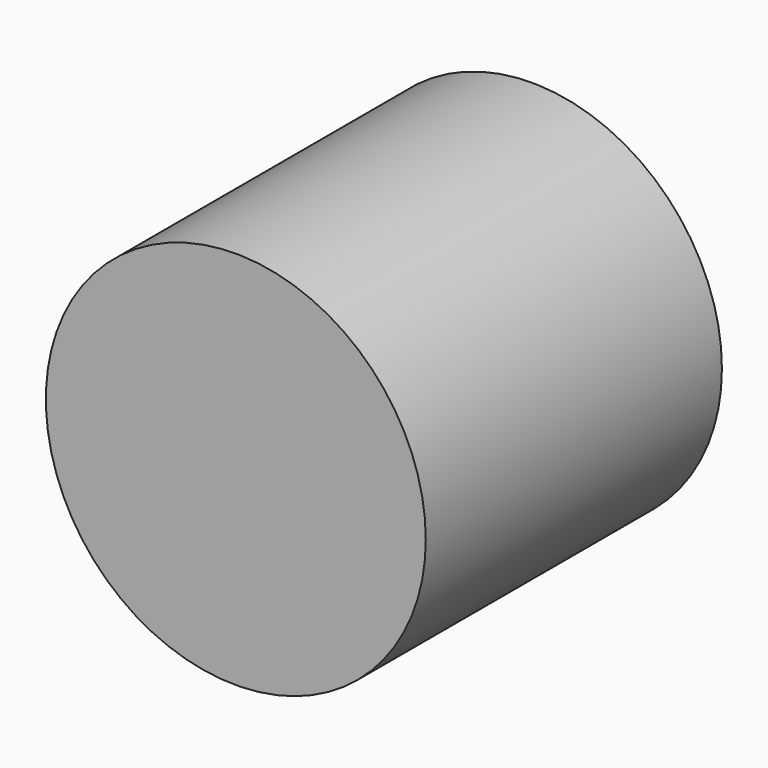
from build123d import *

# Parameters (mm, degrees)
F0_W     = 82.477182
F0_H     = 55.173277
F1_DEPTH = 12.7
F2_R     = 13.034406
F3_DEPTH = 25.4


with BuildPart() as f1:
    # F0 (on Front) → F1 (new body, symmetric)
    with BuildSketch(Plane.XZ):
        with Locations((-9.435952, 18.07011)):
            Rectangle(F0_W, F0_H)
    extrude(amount=F1_DEPTH, both=True)

    # F2 (on face) → F3 (intersect)
    with BuildSketch(Plane.XZ.offset(12.7)):
        with Locations((-11.539553, 22.065453)):
            Circle(F2_R)
    extrude(amount=-F3_DEPTH, mode=Mode.INTERSECT)


solid = f1.part
